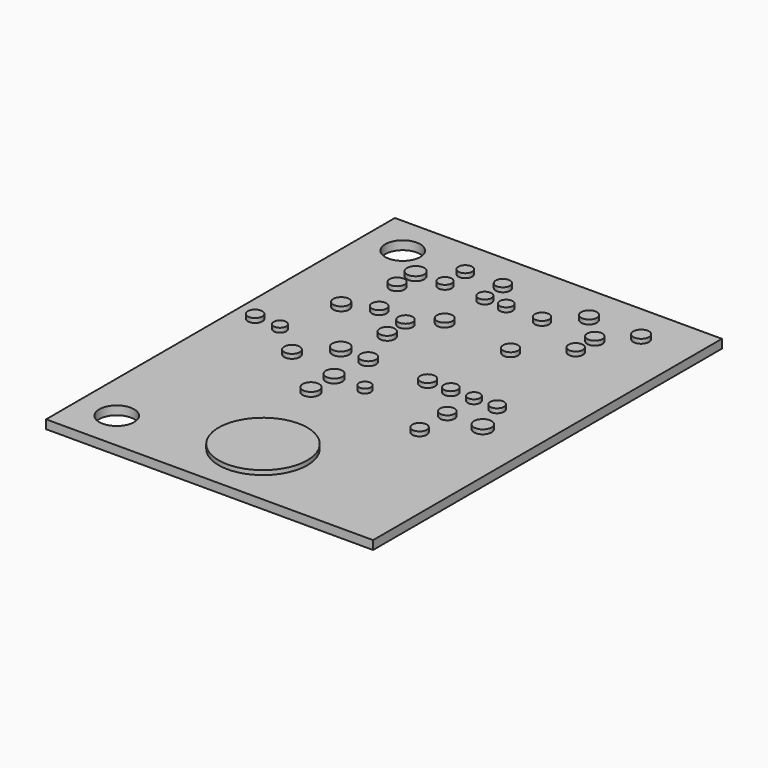
from build123d import *

# Parameters (mm, degrees)
F0_W     = 75
F0_H     = 100
F0_R     = 4
F1_DEPTH = 2
F3_R     = 10.169481
F2_R     = 1.374181
F2_R_2   = 1.892669
F2_R_3   = 1.892668
F2_R_4   = 1.659979
F2_R_5   = 1.65998
F2_R_6   = 2.005761
F2_R_7   = 1.574794
F2_R_8   = 1.40854
F2_R_9   = 1.574796
F2_R_10  = 1.709054
F2_R_11  = 1.764583
F2_R_12  = 1.935853
F2_R_13  = 1.42797
F2_R_14  = 1.733071
F2_R_15  = 1.668258
F2_R_16  = 1.803872
F2_R_17  = 1.787855
F2_R_18  = 1.643296
F2_R_19  = 1.733068
F2_R_20  = 1.795544
F2_R_21  = 1.509814
F2_R_22  = 1.530425
F2_R_23  = 1.643299
F2_R_24  = 1.574797
F2_R_25  = 1.530428
F2_R_26  = 1.991976
F4_DEPTH = 1


with BuildPart() as f1:
    # F0 (on Top) → F1 (new body)
    with BuildSketch(Plane.XY):
        Rectangle(F0_W, F0_H)
        with Locations((-28.5, -41)):
            Circle(F0_R, mode=Mode.SUBTRACT)
        with Locations((-28.5, 41)):
            Circle(F0_R, mode=Mode.SUBTRACT)
    extrude(amount=F1_DEPTH)

    # F3 (on face) + F2 (on face) → F4 (join)
    with BuildSketch(Plane.XY.offset(2)):
        with Locations((0, -34.689765)):
            Circle(F3_R)
    with BuildSketch(Plane.XY.offset(2)):
        with Locations((0, -5.458488)):
            Circle(F2_R)
        with Locations((-7.071142, -5.458488)):
            Circle(F2_R_2)
        with Locations((-7.071142, -12.098408)):
            Circle(F2_R_3)
        with Locations((17.828561, -12.098408)):
            Circle(F2_R_4)
        with Locations((17.828561, -4.130504)):
            Circle(F2_R_5)
        with Locations((25.962463, -4.130504)):
            Circle(F2_R_6)
        with Locations((23.140498, 3.505405)):
            Circle(F2_R_7)
        with Locations((17.828561, 3.505405)):
            Circle(F2_R_8)
        with Locations((12.516625, 3.505405)):
            Circle(F2_R_9)
        with Locations((7.204687, 3.505405)):
            Circle(F2_R_10)
        with Locations((-6.40715, 3.505405)):
            Circle(F2_R_11)
        with Locations((-12.715074, 3.505405)):
            Circle(F2_R_12)
        with Locations((-18.857002, -2.80252)):
            Circle(F2_R_11)
        with Locations((-26.658908, 3.505405)):
            Circle(F2_R_13)
        with Locations((-32.634836, 3.837401)):
            Circle(F2_R_5)
        with Locations((-9.893108, 13.299287)):
            Circle(F2_R_14)
        with Locations((-10.225104, 18.94322)):
            Circle(F2_R_5)
        with Locations((-17.19702, 20.105207)):
            Circle(F2_R_15)
        with Locations((-23.504946, 17.117243)):
            Circle(F2_R_16)
        with Locations((-5.079166, 23.757163)):
            Circle(F2_R_17)
        with Locations((11.354637, 22.097182)):
            Circle(F2_R_10)
        with Locations((20.318532, 29.567093)):
            Circle(F2_R_18)
        with Locations((20.318532, 35.045028)):
            Circle(F2_R_19)
        with Locations((26.294459, 40.854957)):
            Circle(F2_R_20)
        with Locations((14.342602, 40.854957)):
            Circle(F2_R_20)
        with Locations((8.200676, 35.045028)):
            Circle(F2_R_18)
        with Locations((0, 35.045028)):
            Circle(F2_R_21)
        with Locations((-4.913167, 35.045028)):
            Circle(F2_R_22)
        with Locations((-5.411162, 40.854957)):
            Circle(F2_R_23)
        with Locations((-14.043058, 40.854957)):
            Circle(F2_R_24)
        with Locations((-14.043058, 35.045028)):
            Circle(F2_R_25)
        with Locations((-20.516982, 34.713034)):
            Circle(F2_R_26)
        with Locations((-20.516982, 29.401097)):
            Circle(F2_R_10)
    extrude(amount=F4_DEPTH)


solid = f1.part
